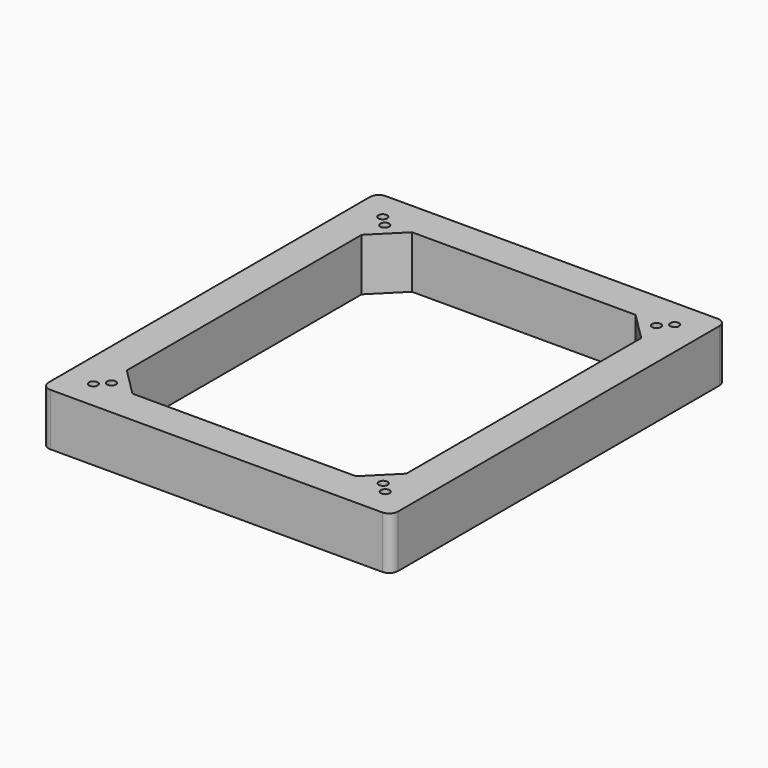
from build123d import *

# Parameters (mm, degrees)
F0_R     = 1.5875
F1_DEPTH = 19.05


with BuildPart() as f1:
    # F0 (on Top) → F1 (new body)
    with BuildSketch(Plane.XY):
        with BuildLine():
            Line((60.531797, 76.456334), (-60.118203, 76.456334))
            ThreePointArc((-60.118203, 76.456334), (-62.363267, 75.526399), (-63.293203, 73.281334))
            Line((-63.293203, 73.281334), (-63.293203, -72.768666))
            ThreePointArc((-63.293203, -72.768666), (-62.363267, -75.01373), (-60.118203, -75.943666))
            Line((-60.118203, -75.943666), (60.531797, -75.943666))
            ThreePointArc((60.531797, -75.943666), (62.776861, -75.01373), (63.706797, -72.768666))
            Line((63.706797, -72.768666), (63.706797, 73.281334))
            ThreePointArc((63.706797, 73.281334), (62.776861, 75.526399), (60.531797, 76.456334))
        make_face()
        with BuildLine():
            ThreePointArc((-56.943203, 66.931334), (-56.013267, 69.176399), (-53.768203, 70.106334))
            Line((-53.768203, 70.106334), (54.181797, 70.106334))
            ThreePointArc((54.181797, 70.106334), (56.426861, 69.176399), (57.356797, 66.931334))
            Line((57.356797, 66.931334), (57.356797, -66.418666))
            ThreePointArc((57.356797, -66.418666), (56.426861, -68.66373), (54.181797, -69.593666))
            Line((54.181797, -69.593666), (-53.768203, -69.593666))
            ThreePointArc((-53.768203, -69.593666), (-56.013267, -68.66373), (-56.943203, -66.418666))
            Line((-56.943203, -66.418666), (-56.943203, 66.931334))
        make_face(mode=Mode.SUBTRACT)
        with BuildLine():
            Line((54.181797, 70.106334), (-53.768203, 70.106334))
            ThreePointArc((-53.768203, 70.106334), (-56.013267, 69.176399), (-56.943203, 66.931334))
            Line((-56.943203, 66.931334), (-56.943203, -66.418666))
            ThreePointArc((-56.943203, -66.418666), (-56.013267, -68.66373), (-53.768203, -69.593666))
            Line((-53.768203, -69.593666), (54.181797, -69.593666))
            ThreePointArc((54.181797, -69.593666), (56.426861, -68.66373), (57.356797, -66.418666))
            Line((57.356797, -66.418666), (57.356797, 66.931334))
            ThreePointArc((57.356797, 66.931334), (56.426861, 69.176399), (54.181797, 70.106334))
        make_face()
        with Locations((-52.834257, -65.484719)):
            Circle(F0_R, mode=Mode.SUBTRACT)
        with BuildLine():
            ThreePointArc((-48.268948, 63.640233), (-47.847518, 63.727175), (-47.418203, 63.756334))
            Line((-47.418203, 63.756334), (-40.433203, 63.756334))
            Line((-40.433203, 63.756334), (40.846797, 63.756334))
            Line((40.846797, 63.756334), (47.831797, 63.756334))
            ThreePointArc((47.831797, 63.756334), (48.261112, 63.727175), (48.682541, 63.640233))
            ThreePointArc((48.682541, 63.640233), (50.321889, 63.738981), (51.171406, 62.333443))
            ThreePointArc((51.171406, 62.333443), (51.099604, 61.861412), (50.890695, 61.432079))
            ThreePointArc((50.890695, 61.432079), (50.977637, 61.01065), (51.006797, 60.581334))
            Line((51.006797, 60.581334), (51.006797, 53.596334))
            Line((51.006797, 53.596334), (51.006797, -53.083666))
            Line((51.006797, -53.083666), (51.006797, -60.698242))
            ThreePointArc((51.006797, -60.698242), (51.000133, -60.882306), (50.980177, -61.065405))
            ThreePointArc((50.980177, -61.065405), (51.122856, -61.431175), (51.171406, -61.820774))
            ThreePointArc((51.171406, -61.820774), (50.39662, -63.184465), (48.828536, -63.217046))
            ThreePointArc((48.828536, -63.217046), (48.645437, -63.237002), (48.461374, -63.243666))
            Line((48.461374, -63.243666), (40.846797, -63.243666))
            Line((40.846797, -63.243666), (-40.433203, -63.243666))
            Line((-40.433203, -63.243666), (-47.418203, -63.243666))
            ThreePointArc((-47.418203, -63.243666), (-47.847518, -63.214506), (-48.268948, -63.127564))
            ThreePointArc((-48.268948, -63.127564), (-50.292844, -62.943306), (-50.477102, -60.91941))
            ThreePointArc((-50.477102, -60.91941), (-50.564044, -60.497981), (-50.593203, -60.068666))
            Line((-50.593203, -60.068666), (-50.593203, -53.083666))
            Line((-50.593203, -53.083666), (-50.593203, 53.596334))
            Line((-50.593203, 53.596334), (-50.593203, 60.581334))
            ThreePointArc((-50.593203, 60.581334), (-50.564044, 61.01065), (-50.477102, 61.432079))
            ThreePointArc((-50.477102, 61.432079), (-50.292844, 63.455975), (-48.268948, 63.640233))
        make_face(mode=Mode.SUBTRACT)
        with Locations((53.24785, -65.484719)):
            Circle(F0_R, mode=Mode.SUBTRACT)
        with Locations((-52.834257, 65.997388)):
            Circle(F0_R, mode=Mode.SUBTRACT)
        with Locations((53.24785, 65.997388)):
            Circle(F0_R, mode=Mode.SUBTRACT)
        with BuildLine():
            Line((-40.433203, 63.756334), (-47.418203, 63.756334))
            ThreePointArc((-47.418203, 63.756334), (-47.847518, 63.727175), (-48.268948, 63.640233))
            ThreePointArc((-48.268948, 63.640233), (-47.764774, 63.071427), (-47.582812, 62.333443))
            ThreePointArc((-47.582812, 62.333443), (-48.69828, 60.817745), (-50.477102, 61.432079))
            ThreePointArc((-50.477102, 61.432079), (-50.564044, 61.01065), (-50.593203, 60.581334))
            Line((-50.593203, 60.581334), (-50.593203, 53.596334))
            Line((-50.593203, 53.596334), (-40.433203, 63.756334))
        make_face()
        with BuildLine():
            Line((47.831797, 63.756334), (40.846797, 63.756334))
            Line((40.846797, 63.756334), (51.006797, 53.596334))
            Line((51.006797, 53.596334), (51.006797, 60.581334))
            ThreePointArc((51.006797, 60.581334), (50.977637, 61.01065), (50.890695, 61.432079))
            ThreePointArc((50.890695, 61.432079), (48.461374, 61.210911), (48.682541, 63.640233))
            ThreePointArc((48.682541, 63.640233), (48.261112, 63.727175), (47.831797, 63.756334))
        make_face()
        with BuildLine():
            Line((51.006797, -60.698242), (51.006797, -53.083666))
            Line((51.006797, -53.083666), (40.846797, -63.243666))
            Line((40.846797, -63.243666), (48.461374, -63.243666))
            ThreePointArc((48.461374, -63.243666), (48.645437, -63.237002), (48.828536, -63.217046))
            ThreePointArc((48.828536, -63.217046), (48.461374, -60.698242), (50.980177, -61.065405))
            ThreePointArc((50.980177, -61.065405), (51.000133, -60.882306), (51.006797, -60.698242))
        make_face()
        with BuildLine():
            Line((-40.433203, -63.243666), (-50.593203, -53.083666))
            Line((-50.593203, -53.083666), (-50.593203, -60.068666))
            ThreePointArc((-50.593203, -60.068666), (-50.564044, -60.497981), (-50.477102, -60.91941))
            ThreePointArc((-50.477102, -60.91941), (-48.69828, -60.305076), (-47.582812, -61.820774))
            ThreePointArc((-47.582812, -61.820774), (-47.764774, -62.558758), (-48.268948, -63.127564))
            ThreePointArc((-48.268948, -63.127564), (-47.847518, -63.214506), (-47.418203, -63.243666))
            Line((-47.418203, -63.243666), (-40.433203, -63.243666))
        make_face()
    extrude(amount=F1_DEPTH)


solid = f1.part
